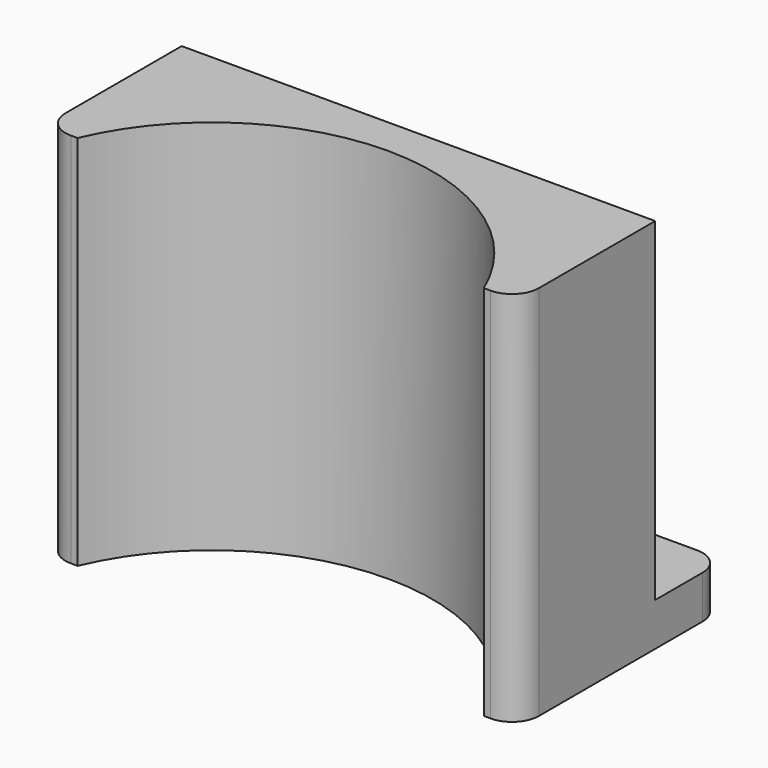
from build123d import *

# Parameters (mm, degrees)
F0_R     = 20.5
F1_DEPTH = 50
F3_DEPTH = 35
F5_W     = 44
F5_H     = 8
F6_DEPTH = 4
F7_R     = 2.5
F9_DEPTH = 2.1


with BuildPart() as f1:
    # F0 (on Top) → F1 (new body)
    with BuildSketch(Plane.XY):
        Circle(F0_R)
    extrude(amount=F1_DEPTH)


with BuildPart() as f3:
    # F2 (on Top) → F3 (new body)
    with BuildSketch(Plane.XY):
        Polygon((-22, 8), (0, 8), (22, 8), (22, 24), (-22, 24), align=None)
    extrude(amount=F3_DEPTH)

    # F4: cut F1
    add(f1.part, mode=Mode.SUBTRACT)

    # F5 (on Top) → F6 (join)
    with BuildSketch(Plane.XY):
        with Locations((0, 28)):
            Rectangle(F5_W, F5_H)
    extrude(amount=F6_DEPTH)

    # F7
    f7_edges = [f3.edges().sort_by_distance(p)[0] for p in [
        (-22, 8, 17.5),
        (22, 8, 17.5),
        (-22, 32, 2),
        (22, 32, 2),
    ]]
    fillet(f7_edges, radius=F7_R)


with BuildPart() as f9:
    # F8 (on Front) → F9 (new body)
    with BuildSketch(Plane.XZ):
        with BuildLine():
            ThreePointArc((0, 13.957158041), (3.7476659403, 15.5094921007), (5.3, 19.257158041))
            ThreePointArc((5.3, 19.257158041), (-3.7476659403, 23.0048239813), (0, 13.957158041))
        make_face()
    extrude(amount=F9_DEPTH)


with BuildPart() as f9_1:
    # F10: moved
    add(f9.part.moved(Location((0, 24, 0))))


with BuildPart() as f3_1:
    add(f3.part)

    # F11: cut F9
    add(f9_1.part, mode=Mode.SUBTRACT)


solid = f3_1.part
